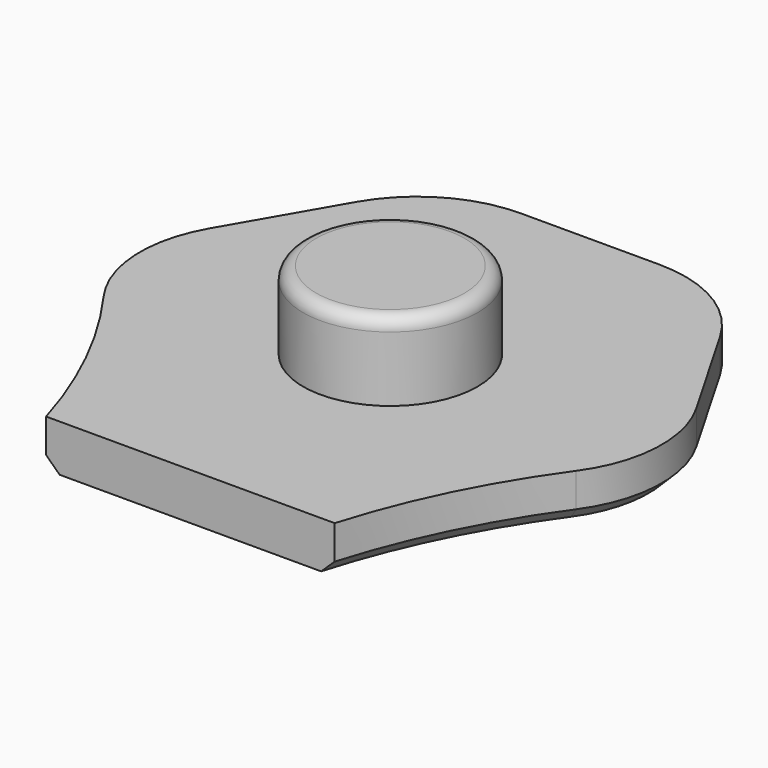
from build123d import *

# Parameters (mm, degrees)
F0_R     = 3.35
F1_DEPTH = 1.8
F2_R     = 5
F3_DEPTH = 4.8
F4_R     = 0.5
F5_SIZE  = 0.5


with BuildPart() as f1:
    # F0 (on Top) → F1 (new body)
    with BuildSketch(Plane.XY):
        with BuildLine():
            Line((-5.5425625842, -9.6), (5.5425625842, -9.6))
            ThreePointArc((5.5425625842, -9.6), (7.7462161651, -4.4722799881), (11.0851251684, 0))
            Line((11.0851251684, 0), (5.5425625842, 9.6))
            Line((5.5425625842, 9.6), (-5.5425625842, 9.6))
            Line((-5.5425625842, 9.6), (-11.0851251684, 0))
            ThreePointArc((-11.0851251684, 0), (-7.745470711, -4.4718496), (-5.5425625842, -9.6))
        make_face()
        Polygon((7.3900834456, 0), (3.6950417228, -6.4), (-3.6950417228, -6.4), (-7.3900834456, 0), (-3.6950417228, 6.4), (3.6950417228, 6.4), align=None, mode=Mode.SUBTRACT)
        Polygon((-3.6950417228, -6.4), (3.6950417228, -6.4), (7.3900834456, 0), (3.6950417228, 6.4), (-3.6950417228, 6.4), (-7.3900834456, 0), align=None)
        Circle(F0_R, mode=Mode.SUBTRACT)
    extrude(amount=F1_DEPTH)

    # F2
    f2_edges = [f1.edges().sort_by_distance(p)[0] for p in [
        (-11.085125, 0, 0.9),
        (-5.542563, 9.6, 0.9),
        (5.542563, 9.6, 0.9),
        (11.085125, 0, 0.9),
    ]]
    fillet(f2_edges, radius=F2_R)

    # F0 (on Top) → F3 (join)
    with BuildSketch(Plane.XY):
        Circle(F0_R)
    extrude(amount=F3_DEPTH)

    # F4
    f4_edges = [f1.edges().sort_by_distance(p)[0] for p in [
        (-3.35, 0, 4.8),
    ]]
    fillet(f4_edges, radius=F4_R)

    # F5
    f5_edges = [f1.edges().sort_by_distance(p)[0] for p in [
        (-5.155811, 8.930127, 0),
    ]]
    chamfer(f5_edges, length=F5_SIZE)


solid = f1.part
